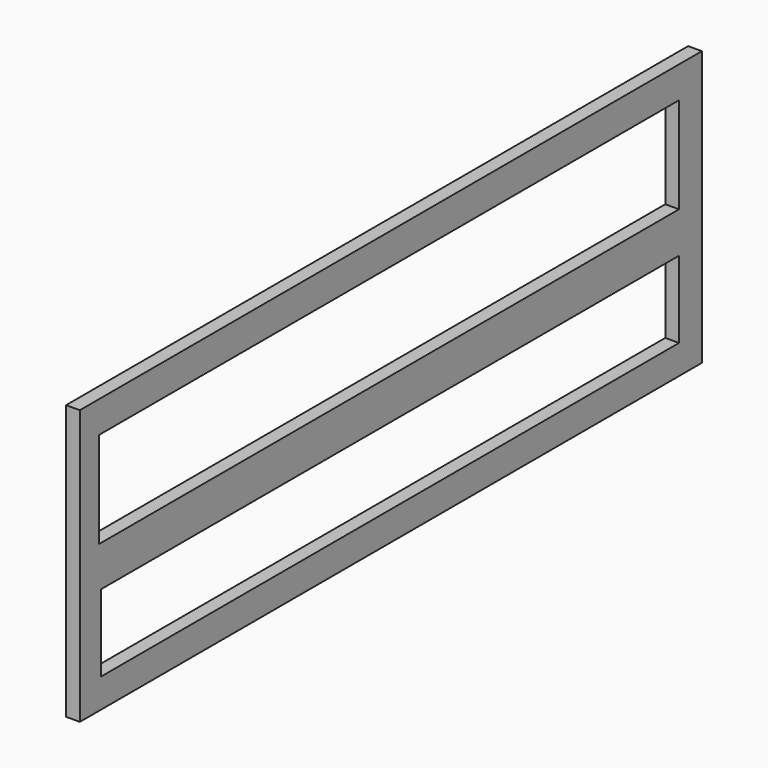
from build123d import *

# Parameters (mm, degrees)
F0_W     = 71.966711
F0_H     = 25.4
F0_W_2   = 66.897251
F0_H_2   = 7.112002
F0_W_3   = 67.119502
F0_H_3   = 8.889999
F1_DEPTH = 1.27


with BuildPart() as f1:
    # F0 (on Right) → F1 (new body)
    with BuildSketch(Plane.YZ):
        with Locations((-33.3375, 34.893252)):
            Rectangle(F0_W, F0_H)
        with Locations((-33.448625, 28.448001)):
            Rectangle(F0_W_2, F0_H_2, mode=Mode.SUBTRACT)
        with Locations((-33.559751, 40.227251)):
            Rectangle(F0_W_3, F0_H_3, mode=Mode.SUBTRACT)
    extrude(amount=F1_DEPTH)


solid = f1.part
